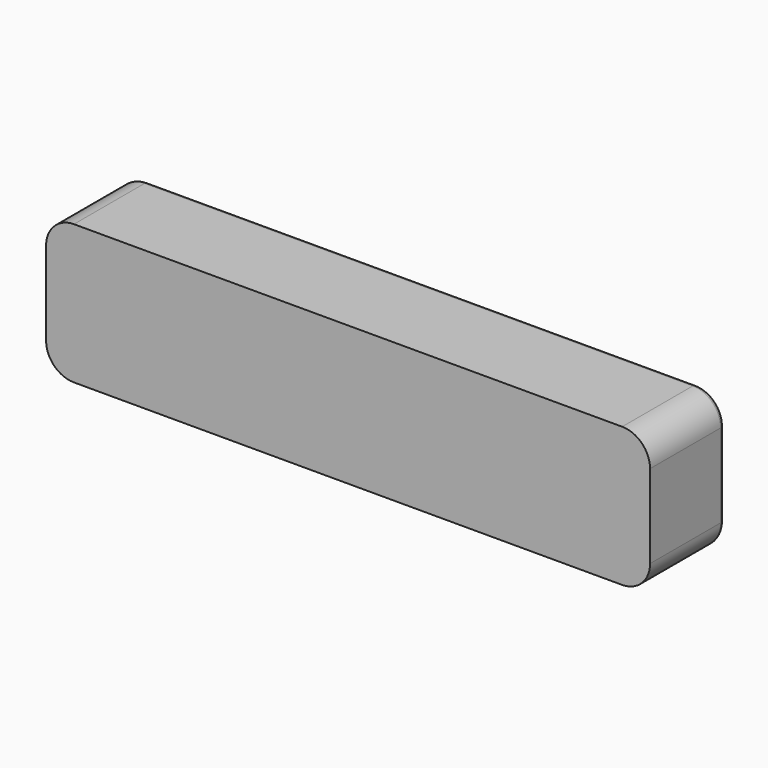
from build123d import *

# Parameters (mm, degrees)
PAD001_DEPTH            = 10
BODY001_PLACEMENT_ANGLE = 90
PAD003_DEPTH            = 10
BODY003_PLACEMENT_ANGLE = 270
BOX005_W                = 32.52
BOX005_H                = 5
BOX005_DEPTH            = 7.5
FILLET002_R             = 1.5
FILLET003_R             = 0.25


with BuildPart() as body001:
    # Sketch001 → Pad001 (new body)
    with BuildSketch(Plane.XZ):
        with BuildLine():
            Line((-0.253994, 6.623128), (-3.180974, -6.757813))
            ThreePointArc((-3.180974, -6.757813), (-3.12952, -6.976398), (-2.926979, -7.073373))
            Line((-2.926979, -7.073373), (2.926979, -7.073373))
            ThreePointArc((2.926979, -7.073373), (3.12952, -6.976398), (3.180974, -6.757813))
            Line((3.180974, -6.757813), (0.253994, 6.623128))
            ThreePointArc((0.253994, 6.623128), (0, 6.827569), (-0.253994, 6.623128))
        make_face()
    extrude(amount=PAD001_DEPTH)


with BuildPart() as body001_1:
    # Body001 placement: moved
    add(body001.part.moved(Location((27.1, 63, -8))).rotate(Axis((27.1, 63, -8), (0, 1, 0)), BODY001_PLACEMENT_ANGLE))


with BuildPart() as wedge_holes:
    # Sketch003 → Pad003 (new body)
    with BuildSketch(Plane.XZ):
        with BuildLine():
            Line((-0.253994, 6.623128), (-3.180974, -6.757813))
            ThreePointArc((-3.180974, -6.757813), (-3.12952, -6.976398), (-2.926979, -7.073373))
            Line((-2.926979, -7.073373), (2.926979, -7.073373))
            ThreePointArc((2.926979, -7.073373), (3.12952, -6.976398), (3.180974, -6.757813))
            Line((3.180974, -6.757813), (0.253994, 6.623128))
            ThreePointArc((0.253994, 6.623128), (0, 6.827569), (-0.253994, 6.623128))
        make_face()
    extrude(amount=PAD003_DEPTH)


with BuildPart() as wedge_holes_1:
    # Body003 placement: moved
    add(wedge_holes.part.moved(Location((10.9, 63, -8))).rotate(Axis((10.9, 63, -8), (0, 1, 0)), BODY003_PLACEMENT_ANGLE))

    # Fusion003: union Body001
    add(body001_1.part)


with BuildPart() as wedge_holes_2:
    # Fusion003 placement: moved
    add(wedge_holes_1.part.moved(Location((0, -25, 0))))


with BuildPart() as fillet003:
    # Box005 → Box005 (new body)
    with BuildSketch(Plane(origin=(2.75, 25, -11.75), x_dir=(1, 0, 0), z_dir=(0, 0, 1))):
        with Locations((16.26, 2.5)):
            Rectangle(BOX005_W, BOX005_H)
    extrude(amount=BOX005_DEPTH)

    # Fillet002
    fillet002_edges = [fillet003.edges().sort_by_distance(p)[0] for p in [
        (2.75, 27.5, -4.25),
        (2.75, 27.5, -11.75),
        (35.27, 27.5, -4.25),
        (35.27, 27.5, -11.75),
    ]]
    fillet(fillet002_edges, radius=FILLET002_R)

    # Cut003: cut wedge holes
    add(wedge_holes_2.part, mode=Mode.SUBTRACT)

    # Fillet003
    fillet003_edges = [fillet003.edges().sort_by_distance(p)[0] for p in [
        (2.75, 30, -8),
        (3.18934, 30, -11.31066),
        (19.01, 30, -11.75),
        (34.83066, 30, -11.31066),
        (35.27, 30, -8),
        (3.18934, 30, -4.68934),
        (34.83066, 30, -4.68934),
        (19.01, 30, -4.25),
        (4.072431, 30, -8),
        (10.967343, 30, -6.282516),
        (17.876398, 30, -4.87048),
        (17.973373, 30, -8),
        (17.876398, 30, -11.12952),
        (10.967343, 30, -9.717484),
        (33.927569, 30, -8),
        (27.032657, 30, -9.717484),
        (20.123602, 30, -11.12952),
        (20.026627, 30, -8),
        (20.123602, 30, -4.87048),
        (27.032657, 30, -6.282516),
    ]]
    fillet(fillet003_edges, radius=FILLET003_R)


solid = fillet003.part
